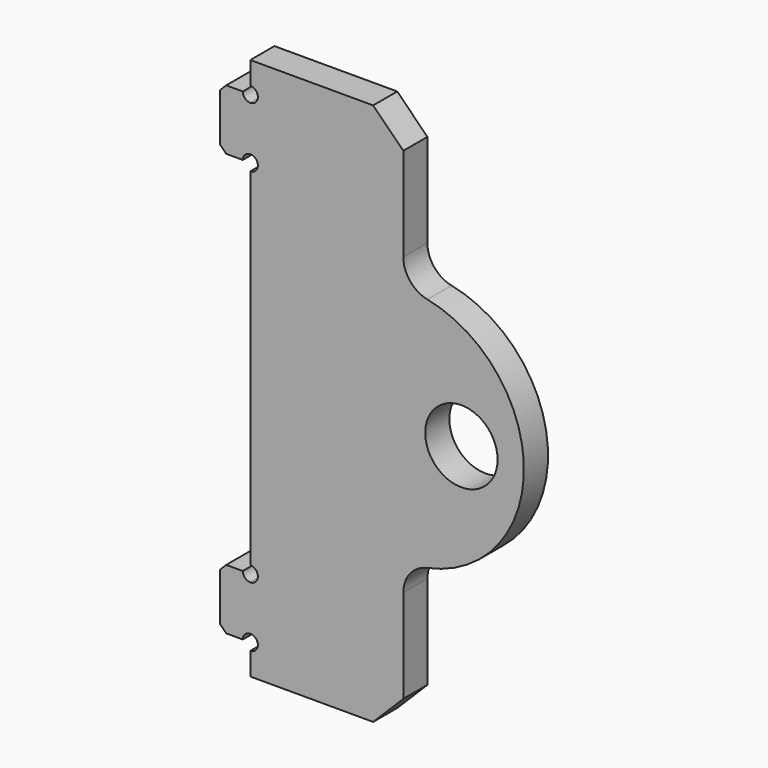
from build123d import *

# Parameters (mm, degrees)
F0_R     = 6
F1_DEPTH = 2.5
F2_SIZE  = 5
F3_SIZE  = 1


with BuildPart() as f1:
    # F0 (on Front) → F1 (new body, symmetric)
    with BuildSketch(Plane.XZ):
        with BuildLine():
            Line((5, 40), (5, 30))
            Line((5, 30), (1.25, 30))
            ThreePointArc((1.25, 30), (0.883883, 29.116117), (0, 28.75))
            Line((0, 28.75), (0, 0))
            Line((0, 0), (0, -28.75))
            ThreePointArc((0, -28.75), (0.883883, -29.116117), (1.25, -30))
            Line((1.25, -30), (5, -30))
            Line((5, -30), (5, -40))
            Line((5, -40), (1.25, -40))
            ThreePointArc((1.25, -40), (0.883883, -40.883883), (0, -41.25))
            Line((0, -41.25), (0, -45))
            Line((0, -45), (25.368266, -45))
            Line((25.368266, -45), (25.368266, -24.494897))
            ThreePointArc((25.368266, -24.494897), (26.495282, -21.33262), (29.368266, -19.595918))
            ThreePointArc((29.368266, -19.595918), (45.368266, 0), (29.368266, 19.595918))
            ThreePointArc((29.368266, 19.595918), (26.495282, 21.33262), (25.368266, 24.494897))
            Line((25.368266, 24.494897), (25.368266, 45))
            Line((25.368266, 45), (0, 45))
            Line((0, 45), (0, 41.25))
            ThreePointArc((0, 41.25), (0.883883, 40.883883), (1.25, 40))
            Line((1.25, 40), (5, 40))
        make_face()
        with Locations((35, 0)):
            Circle(F0_R, mode=Mode.SUBTRACT)
        with BuildLine():
            Line((5, -30), (1.25, -30))
            ThreePointArc((1.25, -30), (0.883883, -30.883883), (0, -31.25))
            Line((0, -31.25), (0, -38.75))
            ThreePointArc((0, -38.75), (0.883883, -39.116117), (1.25, -40))
            Line((1.25, -40), (5, -40))
            Line((5, -40), (5, -30))
        make_face()
        with BuildLine():
            ThreePointArc((0, -31.25), (-0.883883, -30.883883), (-1.25, -30))
            Line((-1.25, -30), (-5, -30))
            Line((-5, -30), (-5, -40))
            Line((-5, -40), (-1.25, -40))
            ThreePointArc((-1.25, -40), (-0.883883, -39.116117), (0, -38.75))
            Line((0, -38.75), (0, -31.25))
        make_face()
        with BuildLine():
            Line((1.25, 30), (5, 30))
            Line((5, 30), (5, 40))
            Line((5, 40), (1.25, 40))
            ThreePointArc((1.25, 40), (0.883883, 39.116117), (0, 38.75))
            Line((0, 38.75), (0, 31.25))
            ThreePointArc((0, 31.25), (0.883883, 30.883883), (1.25, 30))
        make_face()
        with BuildLine():
            ThreePointArc((-1.25, 30), (-0.883883, 30.883883), (0, 31.25))
            Line((0, 31.25), (0, 38.75))
            ThreePointArc((0, 38.75), (-0.883883, 39.116117), (-1.25, 40))
            Line((-1.25, 40), (-5, 40))
            Line((-5, 40), (-5, 30))
            Line((-5, 30), (-1.25, 30))
        make_face()
    extrude(amount=F1_DEPTH, both=True)

    # F2
    f2_edges = [f1.edges().sort_by_distance(p)[0] for p in [
        (25.368266, 0, 45),
        (25.368266, 0, -45),
    ]]
    chamfer(f2_edges, length=F2_SIZE)

    # F3
    f3_edges = [f1.edges().sort_by_distance(p)[0] for p in [
        (-5, 0, 40),
        (-5, 0, -30),
        (-5, 0, 30),
        (-5, 0, -40),
    ]]
    chamfer(f3_edges, length=F3_SIZE)


solid = f1.part
